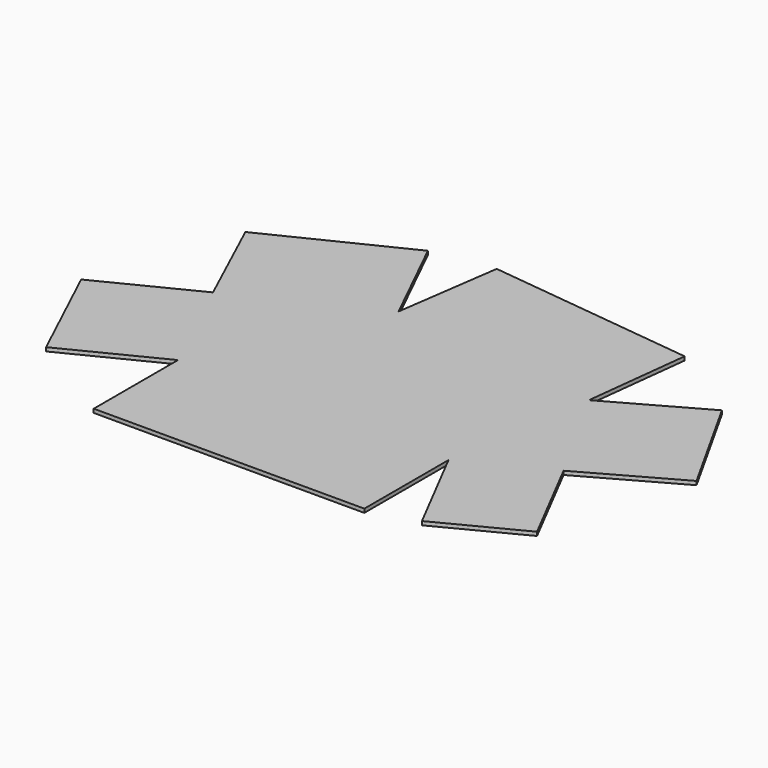
from build123d import *

# Parameters (mm, degrees)
F0_W     = 228.6
F0_H     = 88.9
F1_DEPTH = 3.175


with BuildPart() as f1:
    # F0 (on Top) → F1 (new body)
    with BuildSketch(Plane.XY):
        with Locations((-6.375886, -61.264506)):
            Rectangle(F0_W, F0_H)
        Polygon((-120.675886, -16.814506), (107.924114, -16.814506), (176.744178, 18.68934), (126.819178, 107.918948), (-50.373528, 128.319949), (-163.021117, 73.153093), (-242.451132, 33.227126), (-200.105901, -56.740473), align=None)
        Polygon((176.744178, 18.68934), (107.924114, -16.814506), (148.682794, -95.820455), (217.502858, -60.316609), align=None)
        Polygon((126.819178, 107.918948), (176.744178, 18.68934), (254.326111, 62.09733), (204.401112, 151.326938), align=None)
        Polygon((-50.373528, 128.319949), (126.819178, 107.918948), (136.987466, 196.235515), (-37.870063, 216.336273), align=None)
        Polygon((-163.021117, 73.153093), (-50.373528, 128.319949), (-89.473472, 208.159816), (-200.248779, 153.882959), align=None)
    extrude(amount=F1_DEPTH)


solid = f1.part
